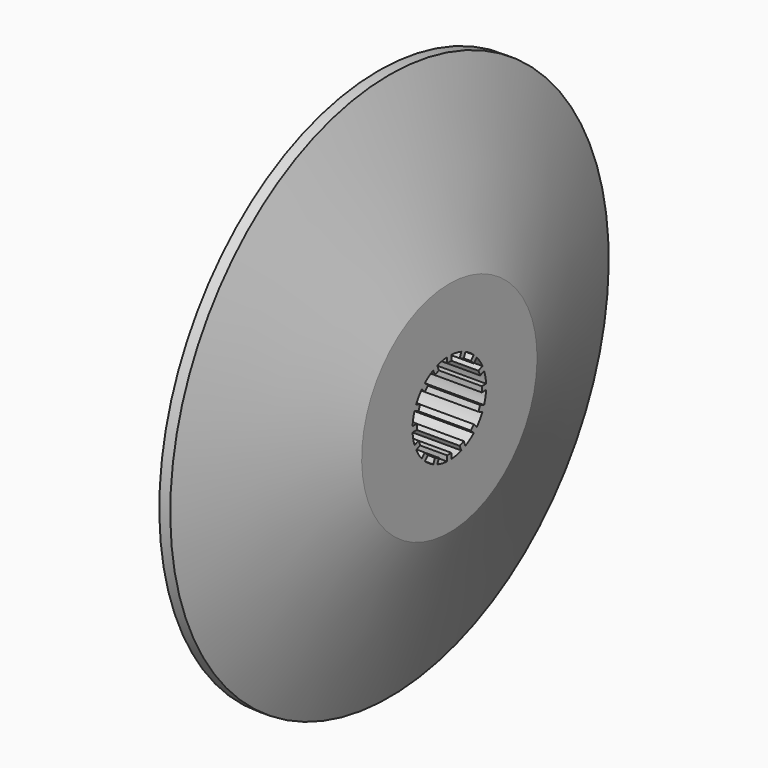
from build123d import *

# Parameters (mm, degrees)
F3_D     = 16.8
F5_DEPTH = 12.919


with BuildPart() as f1:
    # F0 (on Front) → F1 (revolve)
    with BuildSketch(Plane.XZ):
        Polygon((-12.919107028, 0), (0, 0), (0, 20), (-10.919107028, 50), (-12.919107028, 50), align=None)
    revolve(axis=Axis((-6.459553514, 0, 0), (1, 0, 0)))

    # F3 (through all)
    with Locations(Plane.YZ):
        with Locations((0, 0)):
            Hole(F3_D / 2)

    # F4 (on Right) → F5 (join)
    with BuildSketch(Plane.YZ):
        with BuildLine():
            Line((0.5, 7.4), (0.5, 8.3851058431))
            ThreePointArc((0.5, 8.3851058431), (0, 8.4), (-0.5, 8.3851058431))
            Line((-0.5, 8.3851058431), (-0.5, 7.4))
            Line((-0.5, 7.4), (0.5, 7.4))
        make_face()
        with BuildLine():
            Line((-2.3699176332, 7.0280502568), (-2.7469013185, 7.9381693826))
            ThreePointArc((-2.7469013185, 7.9381693826), (-3.2145408319, 7.7605880731), (-3.670780851, 7.5554859502))
            Line((-3.670780851, 7.5554859502), (-3.2937971658, 6.6453668244))
            Line((-3.2937971658, 6.6453668244), (-2.3699176332, 7.0280502568))
        make_face()
        with BuildLine():
            Line((-4.8790367902, 5.5861435714), (-5.575611812, 6.2827185932))
            ThreePointArc((-5.575611812, 6.2827185932), (-5.939696962, 5.939696962), (-6.2827185932, 5.575611812))
            Line((-6.2827185932, 5.575611812), (-5.5861435714, 4.8790367902))
            Line((-5.5861435714, 4.8790367902), (-4.8790367902, 5.5861435714))
        make_face()
        with BuildLine():
            Line((-6.6453668244, 3.2937971658), (-7.5554859502, 3.670780851))
            ThreePointArc((-7.5554859502, 3.670780851), (-7.7605880731, 3.2145408319), (-7.9381693826, 2.7469013185))
            Line((-7.9381693826, 2.7469013185), (-7.0280502568, 2.3699176332))
            Line((-7.0280502568, 2.3699176332), (-6.6453668244, 3.2937971658))
        make_face()
        with BuildLine():
            Line((-7.4, 0.5), (-8.3851058431, 0.5))
            ThreePointArc((-8.3851058431, 0.5), (-8.4, 0), (-8.3851058431, -0.5))
            Line((-8.3851058431, -0.5), (-7.4, -0.5))
            Line((-7.4, -0.5), (-7.4, 0.5))
        make_face()
        with BuildLine():
            Line((-7.0280502568, -2.3699176332), (-7.9381693826, -2.7469013185))
            ThreePointArc((-7.9381693826, -2.7469013185), (-7.7605880731, -3.2145408319), (-7.5554859502, -3.670780851))
            Line((-7.5554859502, -3.670780851), (-6.6453668244, -3.2937971658))
            Line((-6.6453668244, -3.2937971658), (-7.0280502568, -2.3699176332))
        make_face()
        with BuildLine():
            Line((-5.5861435714, -4.8790367902), (-6.2827185932, -5.575611812))
            ThreePointArc((-6.2827185932, -5.575611812), (-5.939696962, -5.939696962), (-5.575611812, -6.2827185932))
            Line((-5.575611812, -6.2827185932), (-4.8790367902, -5.5861435714))
            Line((-4.8790367902, -5.5861435714), (-5.5861435714, -4.8790367902))
        make_face()
        with BuildLine():
            Line((-3.2937971658, -6.6453668244), (-3.670780851, -7.5554859502))
            ThreePointArc((-3.670780851, -7.5554859502), (-3.2145408319, -7.7605880731), (-2.7469013185, -7.9381693826))
            Line((-2.7469013185, -7.9381693826), (-2.3699176332, -7.0280502568))
            Line((-2.3699176332, -7.0280502568), (-3.2937971658, -6.6453668244))
        make_face()
        with BuildLine():
            Line((-0.5, -7.4), (-0.5, -8.3851058431))
            ThreePointArc((-0.5, -8.3851058431), (0, -8.4), (0.5, -8.3851058431))
            Line((0.5, -8.3851058431), (0.5, -7.4))
            Line((0.5, -7.4), (-0.5, -7.4))
        make_face()
        with BuildLine():
            Line((2.3699176332, -7.0280502568), (2.7469013185, -7.9381693826))
            ThreePointArc((2.7469013185, -7.9381693826), (3.2145408319, -7.7605880731), (3.670780851, -7.5554859502))
            Line((3.670780851, -7.5554859502), (3.2937971658, -6.6453668244))
            Line((3.2937971658, -6.6453668244), (2.3699176332, -7.0280502568))
        make_face()
        with BuildLine():
            Line((4.8790367902, -5.5861435714), (5.575611812, -6.2827185932))
            ThreePointArc((5.575611812, -6.2827185932), (5.939696962, -5.939696962), (6.2827185932, -5.575611812))
            Line((6.2827185932, -5.575611812), (5.5861435714, -4.8790367902))
            Line((5.5861435714, -4.8790367902), (4.8790367902, -5.5861435714))
        make_face()
        with BuildLine():
            Line((6.6453668244, -3.2937971658), (7.5554859502, -3.670780851))
            ThreePointArc((7.5554859502, -3.670780851), (7.7605880731, -3.2145408319), (7.9381693826, -2.7469013185))
            Line((7.9381693826, -2.7469013185), (7.0280502568, -2.3699176332))
            Line((7.0280502568, -2.3699176332), (6.6453668244, -3.2937971658))
        make_face()
        with BuildLine():
            Line((7.4, -0.5), (8.3851058431, -0.5))
            ThreePointArc((8.3851058431, -0.5), (8.4, 0), (8.3851058431, 0.5))
            Line((8.3851058431, 0.5), (7.4, 0.5))
            Line((7.4, 0.5), (7.4, -0.5))
        make_face()
        with BuildLine():
            Line((7.0280502568, 2.3699176332), (7.9381693826, 2.7469013185))
            ThreePointArc((7.9381693826, 2.7469013185), (7.7605880731, 3.2145408319), (7.5554859502, 3.670780851))
            Line((7.5554859502, 3.670780851), (6.6453668244, 3.2937971658))
            Line((6.6453668244, 3.2937971658), (7.0280502568, 2.3699176332))
        make_face()
        with BuildLine():
            Line((5.5861435714, 4.8790367902), (6.2827185932, 5.575611812))
            ThreePointArc((6.2827185932, 5.575611812), (5.939696962, 5.939696962), (5.575611812, 6.2827185932))
            Line((5.575611812, 6.2827185932), (4.8790367902, 5.5861435714))
            Line((4.8790367902, 5.5861435714), (5.5861435714, 4.8790367902))
        make_face()
        with BuildLine():
            Line((3.2937971658, 6.6453668244), (3.670780851, 7.5554859502))
            ThreePointArc((3.670780851, 7.5554859502), (3.2145408319, 7.7605880731), (2.7469013185, 7.9381693826))
            Line((2.7469013185, 7.9381693826), (2.3699176332, 7.0280502568))
            Line((2.3699176332, 7.0280502568), (3.2937971658, 6.6453668244))
        make_face()
    extrude(amount=-F5_DEPTH)


solid = f1.part
